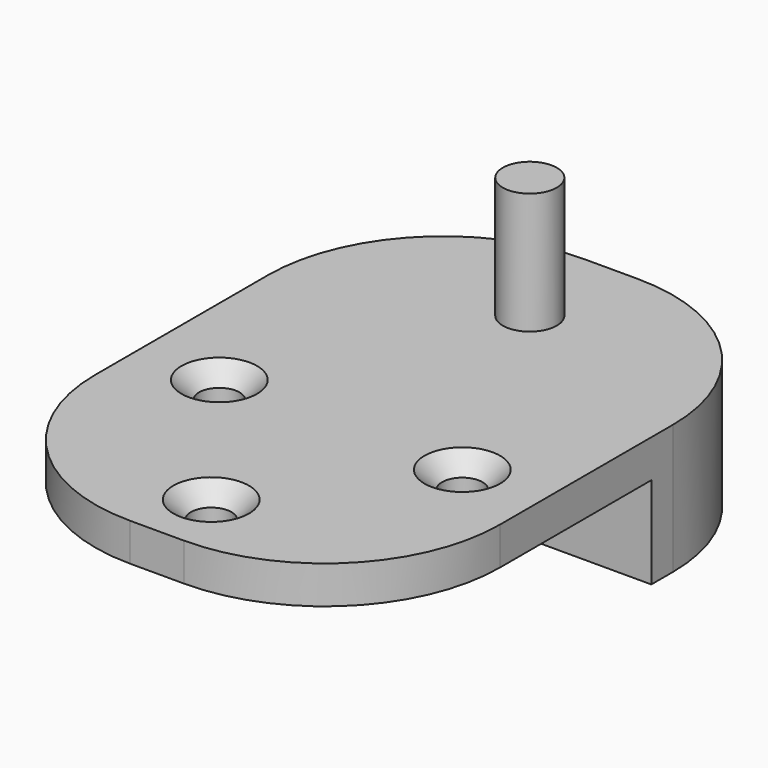
from build123d import *

# Parameters (mm, degrees)
F0_W           = 27
F0_H           = 2.8
F1_DEPTH       = 15
F2_R           = 13
F3_R           = 13
F5_D           = 3
F5_CSINK_D     = 5.6
F5_CSINK_ANGLE = 90
F6_D           = 3
F6_CSINK_D     = 5.6
F6_CSINK_ANGLE = 90
F7_D           = 3
F7_CSINK_D     = 5.6
F7_CSINK_ANGLE = 90
F8_R           = 2
F9_DEPTH       = 9


with BuildPart() as f1:
    # F0 (on Right) → F1 (new body, symmetric)
    with BuildSketch(Plane.YZ):
        Polygon((15, 1.068751), (0, 1.068751), (0, -1.731249), (0, -8.531249), (15, -8.531249), align=None)
        with Locations((-13.5, -0.331249)):
            Rectangle(F0_W, F0_H)
    extrude(amount=F1_DEPTH, both=True)

    # F2
    f2_edges = [f1.edges().sort_by_distance(p)[0] for p in [
        (15, 15, -3.731249),
        (-15, 15, -3.731249),
    ]]
    fillet(f2_edges, radius=F2_R)

    # F3
    f3_edges = [f1.edges().sort_by_distance(p)[0] for p in [
        (15, -27, -0.331249),
        (-15, -27, -0.331249),
    ]]
    fillet(f3_edges, radius=F3_R)

    # F5 (through all)
    with Locations(Plane.XY.offset(1.068751)):
        with Locations((-9, -10)):
            CounterSinkHole(F5_D / 2, F5_CSINK_D / 2, counter_sink_angle=F5_CSINK_ANGLE)

    # F6 (through all)
    with Locations(Plane.XY.offset(1.068751)):
        with Locations((9, -10)):
            CounterSinkHole(F6_D / 2, F6_CSINK_D / 2, counter_sink_angle=F6_CSINK_ANGLE)

    # F7 (through all)
    with Locations(Plane.XY.offset(1.068751)):
        with Locations((0, -22)):
            CounterSinkHole(F7_D / 2, F7_CSINK_D / 2, counter_sink_angle=F7_CSINK_ANGLE)

    # F8 (on face) → F9 (join, symmetric)
    with BuildSketch(Plane.XY.offset(1.068751)):
        with Locations((0, 7.5)):
            Circle(F8_R)
    extrude(amount=F9_DEPTH, both=True)


solid = f1.part
